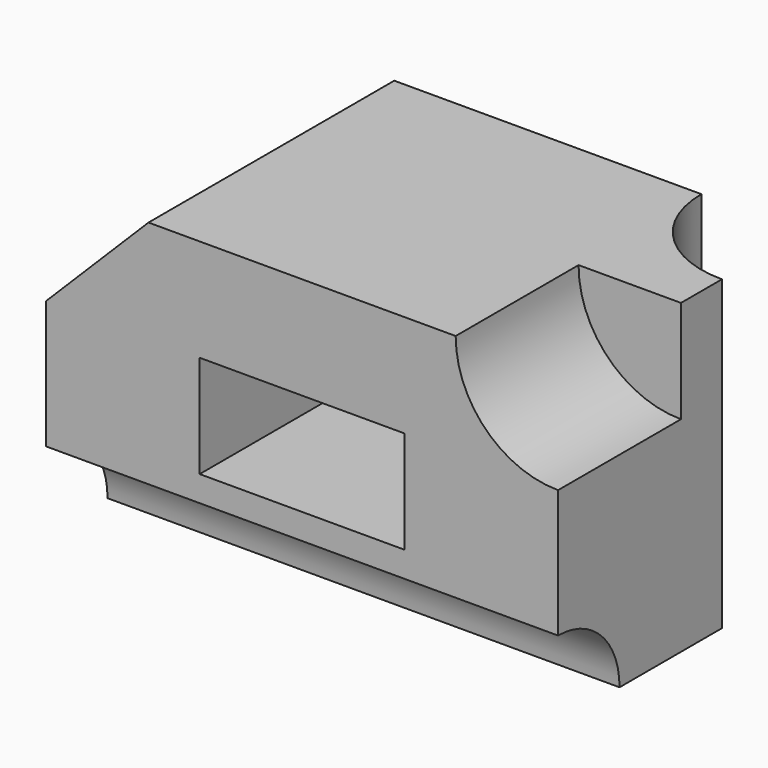
from build123d import *

# Parameters (mm, degrees)
F0_W      = 50
F0_H      = 30
F1_DEPTH  = 30
F3_DEPTH  = 30.001
F4_R      = 10
F5_DEPTH  = 15
F6_W      = 20
F6_H      = 10
F7_DEPTH  = 20
F8_R      = 7.5
F9_DEPTH  = 50.001
F10_R     = 10
F11_DEPTH = 30.001


with BuildPart() as f1:
    # F0 (on Top) → F1 (new body)
    with BuildSketch(Plane.XY):
        with Locations((25, 15)):
            Rectangle(F0_W, F0_H)
    extrude(amount=F1_DEPTH)

    # F2 (on face) → F3 (cut, through all)
    with BuildSketch(Plane.XZ):
        Polygon((10, 30), (0, 30), (0, 20), align=None)
    extrude(amount=-F3_DEPTH, mode=Mode.SUBTRACT)

    # F4 (on face) → F5 (cut)
    with BuildSketch(Plane.XZ):
        with Locations((50, 30)):
            Circle(F4_R)
    extrude(amount=-F5_DEPTH, mode=Mode.SUBTRACT)

    # F6 (on face) → F7 (cut)
    with BuildSketch(Plane.XZ):
        with Locations((25, 15)):
            Rectangle(F6_W, F6_H)
    extrude(amount=-F7_DEPTH, mode=Mode.SUBTRACT)

    # F8 (on face) → F9 (cut, through all)
    with BuildSketch(Plane.YZ.offset(50)):
        Circle(F8_R)
    extrude(amount=-F9_DEPTH, mode=Mode.SUBTRACT)

    # F10 (on face) → F11 (cut, through all)
    with BuildSketch(Plane.XY.offset(30)):
        with Locations((50, 30)):
            Circle(F10_R)
    extrude(amount=-F11_DEPTH, mode=Mode.SUBTRACT)


solid = f1.part
